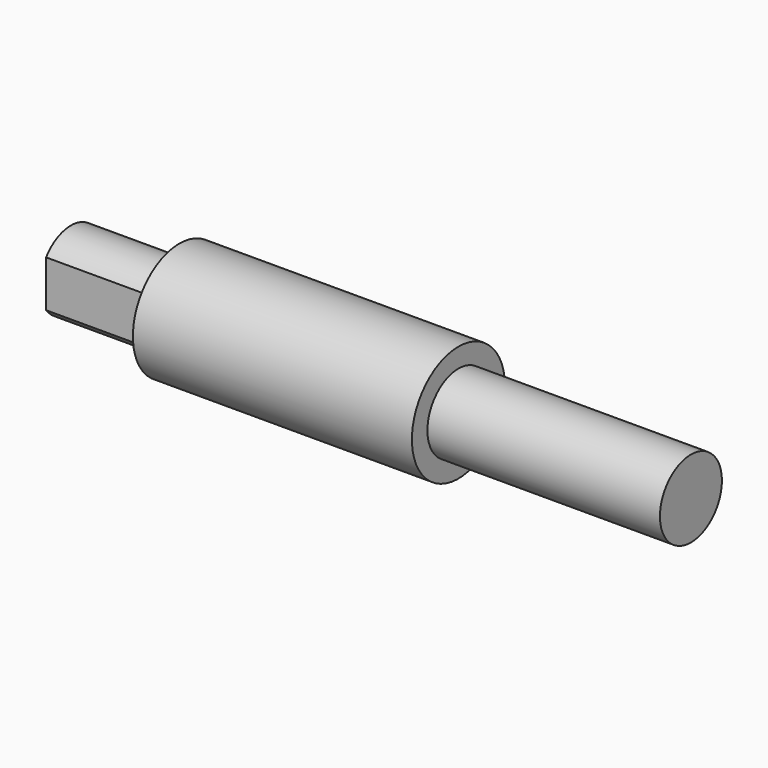
from build123d import *

# Parameters (mm, degrees)
F0_R     = 5
F1_DEPTH = 80
F3_R     = 7.5
F4_DEPTH = 36
F6_DEPTH = 14


with BuildPart() as f1:
    # F0 (on Right) → F1 (new body)
    with BuildSketch(Plane.YZ):
        Circle(F0_R)
    extrude(amount=F1_DEPTH)

    # F3 (on offset) → F4 (join)
    with BuildSketch(Plane.YZ.offset(14)):
        Circle(F3_R)
    extrude(amount=F4_DEPTH)

    # F5 (on face) → F6 (cut, through all)
    with BuildSketch(Plane(origin=(0, 0, 0), x_dir=(0, -1, 0), z_dir=(-1, 0, 0))):
        with BuildLine():
            Line((-4, -3), (-4, 3))
            ThreePointArc((-4, 3), (-5, 0), (-4, -3))
        make_face()
        with BuildLine():
            ThreePointArc((4, -3), (5, 0), (4, 3))
            Line((4, 3), (4, -3))
        make_face()
    extrude(amount=-F6_DEPTH, mode=Mode.SUBTRACT)


solid = f1.part
